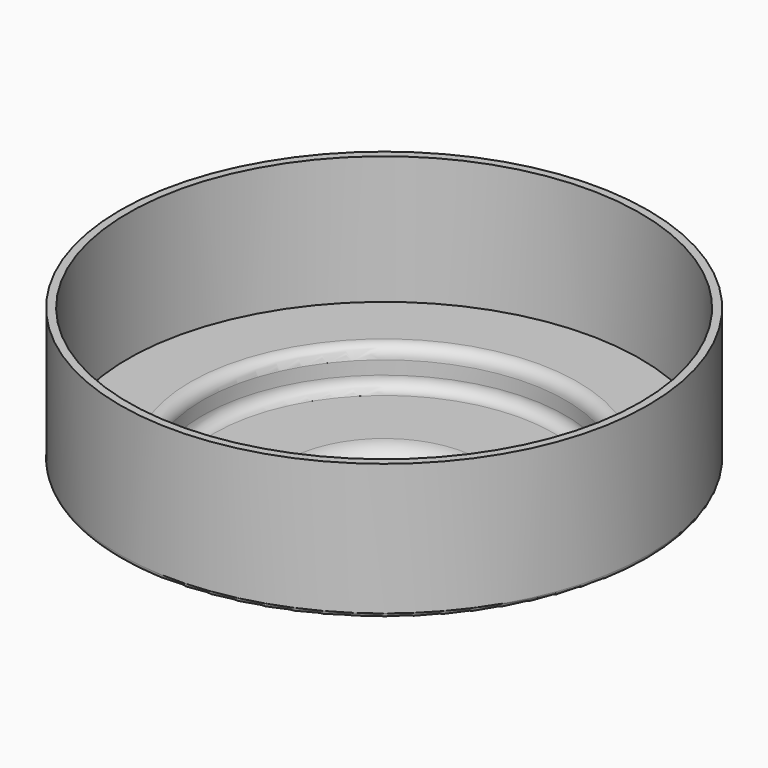
from build123d import *

# Parameters (mm, degrees)
F2_T = -2.54


with BuildPart() as f1:
    # F0 (on Front) → F1 (revolve)
    with BuildSketch(Plane.XZ):
        with BuildLine():
            Line((0, 72.617948), (0, 0))
            Line((0, 0), (25, 0))
            Line((25, 0), (25, 10.149501))
            ThreePointArc((25, 10.149501), (26.859872, 14.639629), (31.35, 16.499501))
            Line((31.35, 16.499501), (54.925465, 16.499501))
            ThreePointArc((54.925465, 16.499501), (59.415593, 18.359373), (61.275465, 22.849501))
            Line((61.275465, 22.849501), (61.275465, 27.205774))
            ThreePointArc((61.275465, 27.205774), (61.681282, 28.185503), (62.661011, 28.59132))
            Line((62.661011, 28.59132), (84.073557, 28.59132))
            ThreePointArc((84.073557, 28.59132), (85.053286, 28.997137), (85.459103, 29.976866))
            Line((85.459103, 29.976866), (85.459103, 72.617948))
            Line((85.459103, 72.617948), (0, 72.617948))
        make_face()
    revolve(axis=Axis((0, 0, 36.308974), (0, 0, -1)))

    # F2
    f2_openings = [f1.faces().sort_by_distance(p)[0] for p in [
        (0, 0, 72.617948),
    ]]
    offset(amount=F2_T, openings=f2_openings)


solid = f1.part
